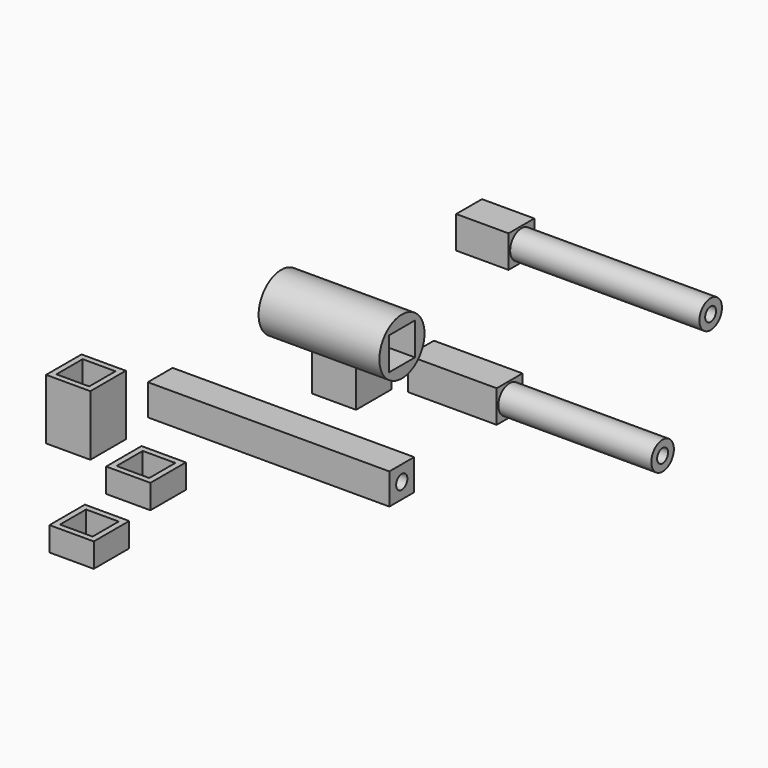
from build123d import *

# Parameters (mm, degrees)
F0_W      = 7.7
F0_H      = 7.7
F0_R      = 1.75
F1_DEPTH  = 30
F2_W      = 11
F2_H      = 11
F2_W_2    = 8.1
F2_H_2    = 8.1
F3_DEPTH  = 6
F4_W      = 11
F4_H      = 11
F4_W_2    = 8.1
F4_H_2    = 8.1
F5_DEPTH  = 18
F6_W      = 11
F6_H      = 11
F6_W_2    = 8.1
F6_H_2    = 8.1
F7_DEPTH  = 6
F8_W      = 11
F8_H      = 11
F8_W_2    = 8.15
F8_H_2    = 8.15
F9_DEPTH  = 15
F0_W_2    = 8
F0_H_2    = 8
F0_R_2    = 1.7
F11_DEPTH = 22
F12_START = 22
F10_R     = 3.5
F10_R_2   = 1.7
F12_DEPTH = 38
F13_R     = 7
F13_W     = 8.1
F13_H     = 8.1
F14_DEPTH = 30
F15_DEPTH = 13
F16_START = 13
F16_DEPTH = 47
F17_ANGLE = 90


with BuildPart() as f1:
    # F0 (on Right) → F1 (new body, symmetric)
    with BuildSketch(Plane.YZ):
        Rectangle(F0_W, F0_H)
        Circle(F0_R, mode=Mode.SUBTRACT)
    extrude(amount=F1_DEPTH, both=True)


with BuildPart() as f3:
    # F2 (on Right) → F3 (new body)
    with BuildSketch(Plane.YZ):
        with Locations((-36.8550536538, 5.7643126614)):
            Rectangle(F2_W, F2_H)
        with Locations((-36.8550536538, 5.7643126614)):
            Rectangle(F2_W_2, F2_H_2, mode=Mode.SUBTRACT)
    extrude(amount=F3_DEPTH)


with BuildPart() as f5:
    # F4 (on Right) → F5 (new body)
    with BuildSketch(Plane.YZ):
        with Locations((21.0227680526, 0.9777891063)):
            Rectangle(F4_W, F4_H)
        with Locations((21.0227680526, 0.9777891063)):
            Rectangle(F4_W_2, F4_H_2, mode=Mode.SUBTRACT)
    extrude(amount=F5_DEPTH)


with BuildPart() as f7:
    # F6 (on Right) → F7 (new body)
    with BuildSketch(Plane.YZ):
        with Locations((-62.9256476264, -1.0249936076)):
            Rectangle(F6_W, F6_H)
        with Locations((-62.9256476264, -1.0249936076)):
            Rectangle(F6_W_2, F6_H_2, mode=Mode.SUBTRACT)
    extrude(amount=F7_DEPTH)


with BuildPart() as f9:
    # F8 (on Right) → F9 (new body)
    with BuildSketch(Plane.YZ):
        with Locations((-27.5596175969, 28.1134638309)):
            Rectangle(F8_W, F8_H)
        with Locations((-27.5596175969, 28.1134638309)):
            Rectangle(F8_W_2, F8_H_2, mode=Mode.SUBTRACT)
    extrude(amount=F9_DEPTH)


with BuildPart() as f11:
    # F0 (on Right) → F11 (new body)
    with BuildSketch(Plane.YZ):
        with Locations((43.4753776491, -2.1807115562)):
            Rectangle(F0_W_2, F0_H_2)
        with Locations((43.4753776491, -2.1807115562)):
            Circle(F0_R_2, mode=Mode.SUBTRACT)
    extrude(amount=F11_DEPTH)

    # F10 (on Right) → F12 (join)
    with BuildSketch(Plane.YZ.offset(F12_START)):
        with Locations((43.4753776491, -2.1807115562)):
            Circle(F10_R)
        with Locations((43.4753776491, -2.1807115562)):
            Circle(F10_R_2, mode=Mode.SUBTRACT)
    extrude(amount=F12_DEPTH)


with BuildPart() as f14:
    # F13 (on Right) → F14 (new body)
    with BuildSketch(Plane.YZ):
        with Locations((0.05, 29.5942687348)):
            Circle(F13_R)
        with Locations((0.05, 29.5942687348)):
            Rectangle(F13_W, F13_H, mode=Mode.SUBTRACT)
    extrude(amount=F14_DEPTH)


with BuildPart() as f15:
    # F0 (on Right) → F15 (new body)
    with BuildSketch(Plane.YZ):
        with Locations((58.3995536864, 22.6999998987)):
            Rectangle(F0_W_2, F0_H_2)
        with Locations((58.3995536864, 22.6999998987)):
            Circle(F0_R_2, mode=Mode.SUBTRACT)
    extrude(amount=F15_DEPTH)

    # F10 (on Right) → F16 (join)
    with BuildSketch(Plane.YZ.offset(F16_START)):
        with Locations((58.3995536864, 22.6999998987)):
            Circle(F10_R)
        with Locations((58.3995536864, 22.6999998987)):
            Circle(F10_R_2, mode=Mode.SUBTRACT)
    extrude(amount=F16_DEPTH)


with BuildPart() as f9_1:
    # F17: moved
    add(f9.part.rotate(Axis((0, -36.8550536538, 1.7143126614), (0, -1, 0)), F17_ANGLE))


with BuildPart() as f7_1:
    # F17: moved
    add(f7.part.rotate(Axis((0, -36.8550536538, 1.7143126614), (0, -1, 0)), F17_ANGLE))


with BuildPart() as f3_1:
    # F17: moved
    add(f3.part.rotate(Axis((0, -36.8550536538, 1.7143126614), (0, -1, 0)), F17_ANGLE))


with BuildPart() as f5_1:
    # F17: moved
    add(f5.part.rotate(Axis((0, -36.8550536538, 1.7143126614), (0, -1, 0)), F17_ANGLE))


solid = Compound([f1.part, f11.part, f14.part, f15.part, f9_1.part, f7_1.part, f3_1.part, f5_1.part])
